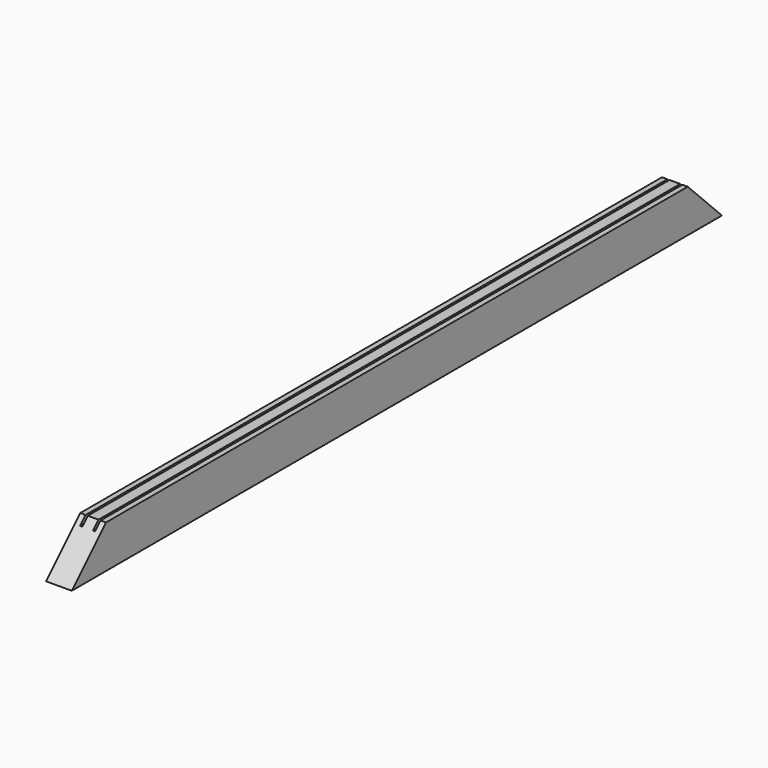
from build123d import *

# Parameters (mm, degrees)
F1_DEPTH = 603.25
F3_DEPTH = 38.101
F4_R     = 6.35
F5_DEPTH = 1.5875
F6_R     = 1.5875
F7_DEPTH = 3.175


with BuildPart() as f1:
    # F0 (on Front) → F1 (new body, symmetric)
    with BuildSketch(Plane.XZ):
        Polygon((-19.05, -31.75), (19.05, -31.75), (19.05, 31.75), (11.1125, 31.75), (11.1125, 21.59), (7.9375, 21.59), (7.9375, 31.75), (-7.9375, 31.75), (-7.9375, 21.59), (-11.1125, 21.59), (-11.1125, 31.75), (-19.05, 31.75), align=None)
    extrude(amount=F1_DEPTH, both=True)

    # F2 (on face) → F3 (cut, through all)
    with BuildSketch(Plane(origin=(-19.05, 0, 0), x_dir=(0, -1, 0), z_dir=(-1, 0, 0))):
        Polygon((539.75, 31.75), (603.25, -31.75), (603.25, 31.75), align=None)
        Polygon((-603.25, 31.75), (-603.25, -31.75), (-539.75, 31.75), align=None)
    extrude(amount=-F3_DEPTH, mode=Mode.SUBTRACT)

    # F4 (on face) → F5 (cut)
    with BuildSketch(Plane(origin=(-19.05, 0, 0), x_dir=(0, -1, 0), z_dir=(-1, 0, 0))):
        with Locations((539.75, -12.7)):
            Circle(F4_R)
        with Locations((-539.75, -12.7)):
            Circle(F4_R)
    extrude(amount=-F5_DEPTH, mode=Mode.SUBTRACT)

    # F6 (on face) → F7 (cut)
    with BuildSketch(Plane(origin=(-19.05, 0, 0), x_dir=(0, -1, 0), z_dir=(-1, 0, 0))):
        with Locations((269.875, -12.7)):
            Circle(F6_R)
        with Locations((-269.875, -12.7)):
            Circle(F6_R)
    extrude(amount=-F7_DEPTH, mode=Mode.SUBTRACT)


solid = f1.part
